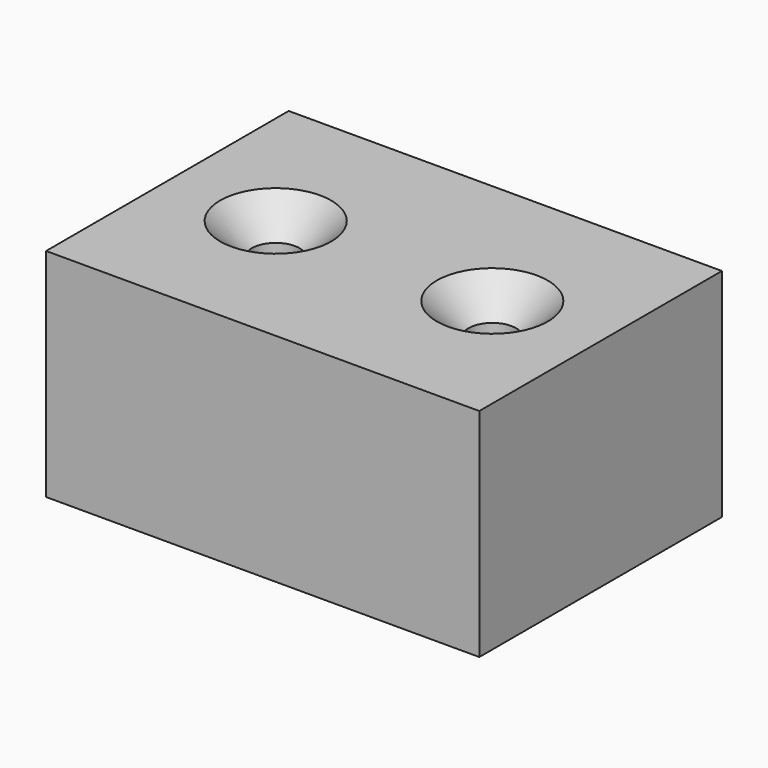
from build123d import *

# Parameters (mm, degrees)
F0_W           = 40
F0_H           = 28
F0_R           = 2.2
F1_DEPTH       = 20
F2_D           = 4.4
F2_CSINK_D     = 10.25
F2_CSINK_ANGLE = 90


with BuildPart() as f1:
    # F0 (on Top) → F1 (new body)
    with BuildSketch(Plane.XY):
        with Locations((-5.360072, 14.320002)):
            Rectangle(F0_W, F0_H)
        with Locations((-15.360072, 14.320002)):
            Circle(F0_R, mode=Mode.SUBTRACT)
        with Locations((4.639928, 14.320002)):
            Circle(F0_R, mode=Mode.SUBTRACT)
        with Locations((-15.360072, 14.320002)):
            Circle(F0_R)
        with Locations((4.639928, 14.320002)):
            Circle(F0_R)
    extrude(amount=-F1_DEPTH)

    # F2 (through all)
    with Locations(Plane.XY):
        with Locations((4.639928, 14.320002), (-15.360072, 14.320002)):
            CounterSinkHole(F2_D / 2, F2_CSINK_D / 2, counter_sink_angle=F2_CSINK_ANGLE)


solid = f1.part
